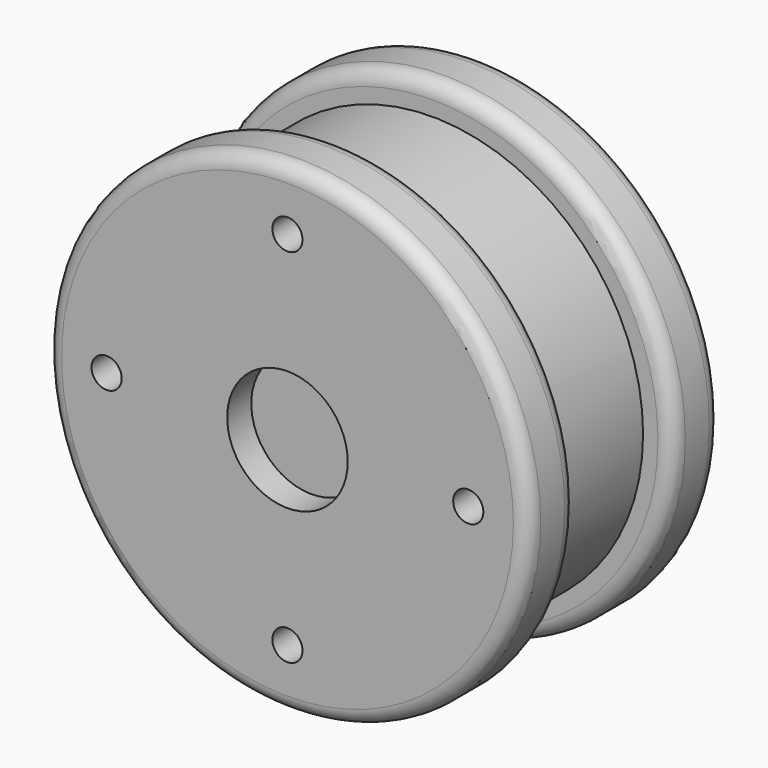
from build123d import *

# Parameters (mm, degrees)
F0_R     = 25.4
F1_DEPTH = 6.35
F2_R     = 22.225
F3_DEPTH = 12.7
F4_R     = 25.4
F5_DEPTH = 6.35
F6_R     = 1.6002
F7_R     = 6.35
F7_R_2   = 1.5875
F8_DEPTH = 3.175


with BuildPart() as f1:
    # F0 (on Front) → F1 (new body)
    with BuildSketch(Plane.XZ):
        Circle(F0_R)
    extrude(amount=F1_DEPTH)

    # F2 (on face) → F3 (join)
    with BuildSketch(Plane.XZ.offset(6.35)):
        Circle(F2_R)
    extrude(amount=F3_DEPTH)

    # F4 (on face) → F5 (join)
    with BuildSketch(Plane.XZ.offset(19.05)):
        Circle(F4_R)
    extrude(amount=F5_DEPTH)

    # F6
    f6_edges = [f1.edges().sort_by_distance(p)[0] for p in [
        (25.4, -3.175, 0),
        (-25.4, 0, 0),
        (-25.4, -6.35, 0),
        (25.4, -22.225, 0),
        (-25.4, -19.05, 0),
        (-25.4, -25.4, 0),
    ]]
    fillet(f6_edges, radius=F6_R)

    # F7 (on face) → F8 (cut)
    with BuildSketch(Plane.XZ.offset(25.4)):
        Circle(F7_R)
        with Locations((0, 19.05)):
            Circle(F7_R_2)
        with Locations((19.05, 0)):
            Circle(F7_R_2)
        with Locations((0, -19.05)):
            Circle(F7_R_2)
        with Locations((-19.05, 0)):
            Circle(F7_R_2)
    extrude(amount=-F8_DEPTH, mode=Mode.SUBTRACT)


solid = f1.part
